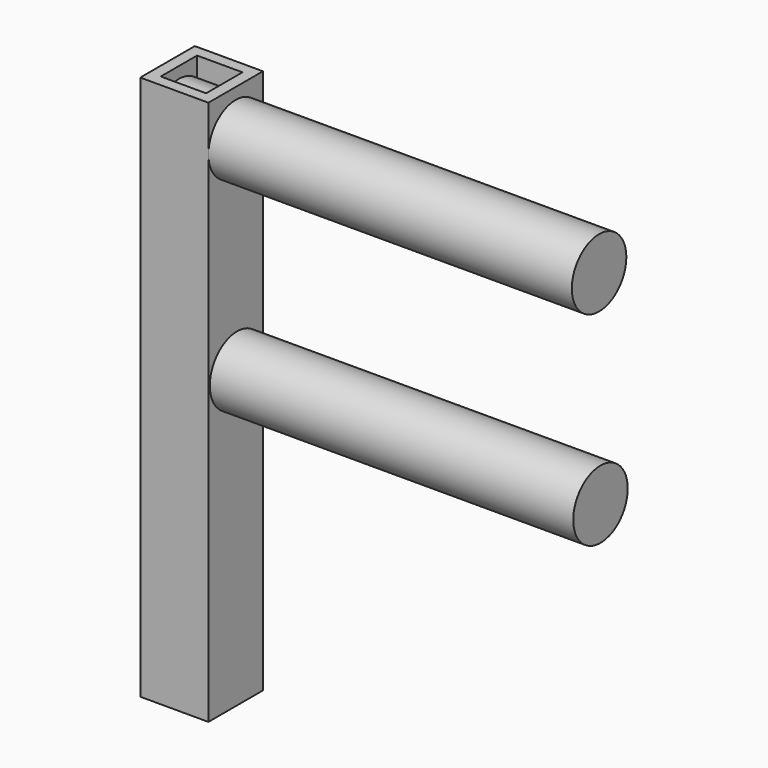
from build123d import *

# Parameters (mm, degrees)
F0_W          = 38.1
F0_H          = 38.1
F0_W_2        = 25.4
F0_H_2        = 25.4
F1_DEPTH      = 304.8
F2_R          = 19.05
F3_DEPTH      = 203.2
F3_DEPTH_BACK = 38.1


with BuildPart() as f1:
    # F0 (on Top) → F1 (new body)
    with BuildSketch(Plane.XY):
        Rectangle(F0_W, F0_H)
        Rectangle(F0_W_2, F0_H_2, mode=Mode.SUBTRACT)
    extrude(amount=F1_DEPTH)

    # F2 (on face) → F3 (join, two sides)
    with BuildSketch(Plane.YZ.offset(19.05)) as f3_sk:
        with Locations((0, 279.4)):
            Circle(F2_R)
        with Locations((0.973879, 165.104149)):
            Circle(F2_R)
    extrude(amount=F3_DEPTH)
    extrude(f3_sk.sketch, amount=-F3_DEPTH_BACK)


solid = f1.part
